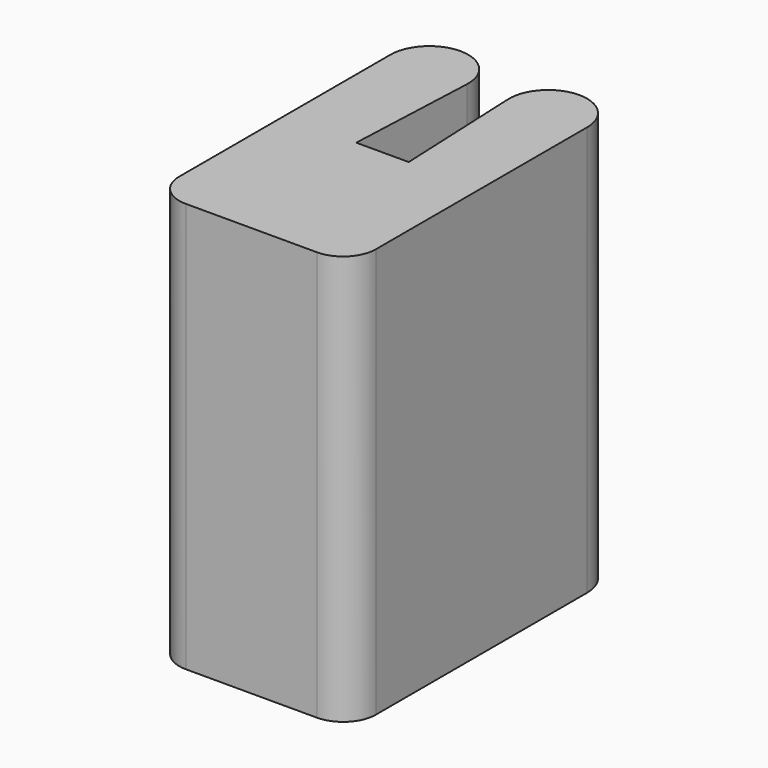
from build123d import *

# Parameters (mm, degrees)
PAD_DEPTH = 25


with BuildPart() as part:
    # Sketch → Pad (new body)
    with BuildSketch(Plane.XY):
        with BuildLine():
            Line((-6, 18.103857), (-6, 2))
            ThreePointArc((-6, 2), (-5.414214, 0.585786), (-4, 0))
            Line((-4, 0), (4, 0))
            ThreePointArc((4, 0), (5.414214, 0.585786), (6, 2))
            Line((6, 2), (6, 18.103857))
            ThreePointArc((6, 18.103857), (3.571924, 20.479424), (1.25, 18))
            Line((1.6, 10), (1.25, 18))
            Line((-1.6, 10), (1.6, 10))
            Line((-1.25, 18), (-1.6, 10))
            ThreePointArc((-1.25, 18), (-3.571924, 20.479424), (-6, 18.103857))
        make_face()
    extrude(amount=PAD_DEPTH)


solid = part.part
